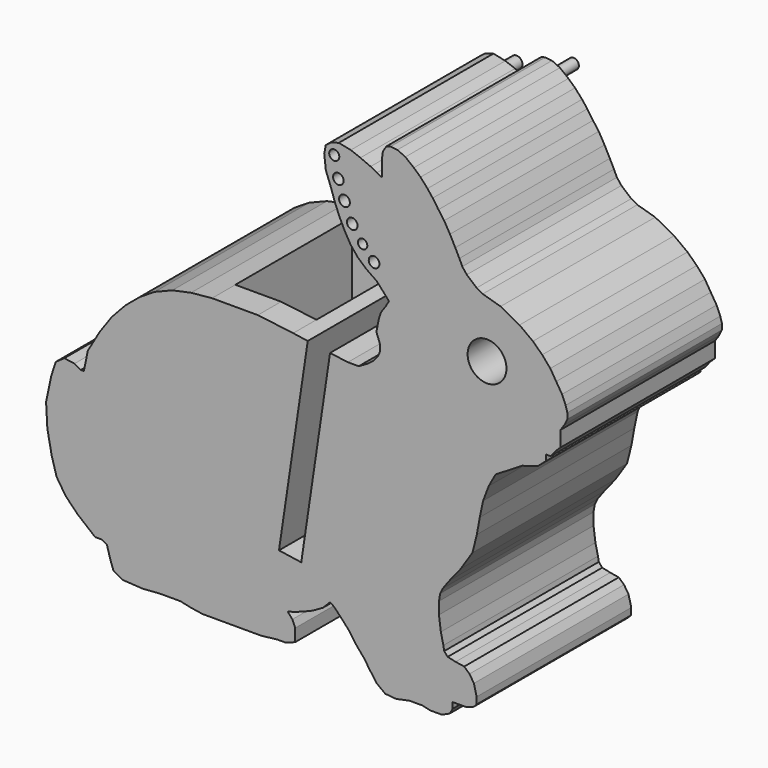
from build123d import *

# Parameters (mm, degrees)
F0_R      = 2.25
F1_DEPTH  = 3
F2_DEPTH  = 19.4
F3_DEPTH  = 15.7
F4_DEPTH  = 7
F5_W      = 4.1350234728
F5_H      = 16.9077240862
F6_DEPTH  = 10.7
F7_W      = 5.3056562265
F7_H      = 16.9077240862
F8_DEPTH  = 10.7
F9_W      = 16.0336308181
F9_H      = 2.2781235116
F10_DEPTH = 16.6
F11_W     = 6.7956339109
F11_H     = 16.8966327328
F12_DEPTH = 10
F13_W     = 1.892045081
F13_H     = 16.8966327328
F14_DEPTH = 10
F15_R     = 0.5852515225
F16_DEPTH = 6.9
F17_R     = 0.577475964
F18_DEPTH = 5.4
F19_R     = 0.6097848633
F20_DEPTH = 8.5
F21_R     = 0.624153218
F22_DEPTH = 3.8
F23_R     = 0.6177631652
F24_DEPTH = 3.8
F25_R     = 0.5472196242
F26_DEPTH = 3.8
F27_R     = 0.617770323
F28_DEPTH = 3.8
F29_R     = 0.6804973789
F30_DEPTH = 2.9
F31_R     = 0.6072449165
F32_DEPTH = 3.13


with BuildPart() as f1:
    # F0 (on Front) → F1 (new body)
    with BuildSketch(Plane.XZ):
        Polygon((59.1779698418, 31.194587481), (59.1779698418, 31.9005881237), (59.7388577371, 31.8816154154), (60.3070678192, 32.6076158289), (60.8939676434, 33.1560252645), (60.8939676434, 33.94444243), (60.8939676434, 34.9491785137), (61.3608548692, 35.6423513558), (61.6794760284, 36.3066197257), (61.6794760284, 36.964568034), (61.4824255283, 37.650985105), (61.0625805582, 38.6402383967), (60.3881708198, 39.7264862101), (59.7092475961, 40.8400280338), (58.7607938368, 41.9245535961), (57.6865458859, 42.9608735974), (56.131929641, 44.1080185295), (53.9428997059, 45.2900241974), (51.8717793367, 45.8880749855), (51.1641228177, 46.2767657275), (50.0276083315, 47.254787707), (49.500445814, 47.9175015095), (49.1623850594, 48.6403019596), (48.6890909202, 49.5821496811), (48.0721058512, 50.756745827), (47.4028453988, 51.9204250674), (46.7350661522, 52.8268286536), (46.0711401365, 53.7907023235), (45.4648239409, 54.5656838351), (44.6564314585, 55.4715389559), (43.8822848719, 56.1802155505), (42.8986280226, 56.9550049245), (41.9814228134, 57.3815747084), (41.2078828484, 57.4680692876), (40.7050007603, 57.323706376), (40.2931032973, 56.6803844909), (40.199734935, 55.9481483411), (40.199734935, 53.9804748212), (39.6002588357, 54.273896786), (38.8731125838, 54.6692215131), (37.691644901, 55.1789449292), (36.5735721249, 55.6012317928), (35.1899154237, 55.8898272879), (34.2816298321, 55.6290847487), (33.6731372422, 55.1684227791), (33.4962484397, 54.2325872158), (33.6837781683, 52.5928086281), (34.1659036474, 51.3379723538), (34.7663858487, 49.5873513683), (35.2569758596, 48.3876865141), (35.9067640461, 47.0506118809), (36.5332756434, 45.9664146991), (37.3798895218, 44.924222276), (38.3908508618, 44.0280229397), (39.5714766328, 43.2154907668), (40.3047049111, 42.4076781904), (41.0011964924, 41.6110026044), (40.6037128381, 40.9368513783), (40.0780839274, 40.1968563654), (39.8294614492, 39.436208314), (39.5429389686, 38.0218070561), (39.9435562115, 36.928816962), (39.9435562115, 36.0942029461), (39.6868255292, 35.5139231333), (39.2115087057, 34.9491785137), (38.4849423599, 34.4103130735), (37.4947947552, 33.8397134992), (36.2388370964, 33.8397134992), (34.1682477254, 34.1105470766), (31.5846720936, 34.4943121109), (29.9018896319, 34.7448454842), (25.7982475776, 35.2533147662), (22.9338105357, 35.2533147662), (20.4925913511, 35.2533147662), (18.0653283384, 35.0201785734), (15.8854493902, 34.5568092112), (13.8497609292, 33.7397600595), (12.1293465844, 32.6644815528), (10.4578391027, 31.2680783419), (8.8429108853, 29.5349174183), (7.4372964263, 27.5334818399), (6.0921336762, 25.2153127735), (5.626352988, 22.9853138756), (5.2811054162, 22.9853138756), (4.5523054715, 23.3941563518), (3.3652996425, 23.5582872219), (2.3869021215, 22.8734776027), (1.8580647324, 21.2996615779), (1.2503211514, 18.4274045382), (1.3953504937, 15.7512989625), (1.9034004358, 13.1371476651), (2.4727079067, 11.1539892033), (3.5306752582, 9.5370138477), (4.8935674994, 8.138209791), (6.9346738022, 6.4682455231), (7.7356851464, 6.4682455231), (8.3006708113, 6.139061086), (8.7042880198, 4.7330776356), (9.059931979, 3.7272284641), (10.1391117511, 3.1285394737), (12.4473123728, 2.994476163), (14.4526387363, 3.1366197305), (16.8182124996, 3.1366197305), (18.0060434283, 2.8763879966), (19.3903542013, 2.6614952628), (21.883129127, 2.6614952628), (23.7435637012, 2.6614952628), (26.1859881122, 2.6614952628), (28.06579015, 2.8763879966), (29.066299208, 2.8763879966), (30.1331987714, 3.287266694), (30.1331987714, 3.5115652152), (30.1331987714, 4.0722664313), (30.1331987714, 4.7332313456), (29.8045038484, 5.5102918726), (29.2580751761, 6.1180421129), (30.1753048391, 6.385948213), (31.1070111921, 6.7245609263), (32.1866285138, 7.1757989864), (33.3447322722, 7.8400621162), (34.1773899787, 8.6830629355), (34.5961799391, 8.3883274486), (35.2824532969, 7.6921380472), (36.3022424833, 6.5724259885), (37.0747716212, 5.4643229671), (38.0653628889, 4.2985577244), (38.7650963545, 3.287266694), (39.5393966511, 2.1927098055), (40.5617639739, 1.4101439923), (41.8474854837, 1.29517555), (43.3533756495, 1.6162313684), (44.9111674038, 1.6162313684), (45.7386897979, 1.4101439923), (47.1447348197, 1.4101439923), (48.0390547016, 1.8218246455), (48.391113549, 2.4300583955), (48.391113549, 3.1064440938), (49.9711618169, 3.1064440938), (50.7690600963, 3.3749897061), (51.1641228177, 3.7687113949), (51.1641228177, 4.5507251402), (50.8511063176, 5.8227389469), (50.331727117, 6.6105731496), (49.7232345272, 7.1669628431), (48.7272878623, 7.3274251963), (47.8059953638, 7.5314743863), (47.4058916521, 7.9913136579), (47.3091591362, 8.5442592861), (47.0176340929, 9.8221136372), (46.7949781293, 11.4877626708), (46.7949781293, 12.8848767905), (46.9349625513, 13.7100262861), (47.2396647362, 14.3331588828), (48.0156837904, 15.3890061712), (49.3168950791, 17.0124460815), (50.682930079, 19.1019749735), (51.1880177404, 21.1130785633), (51.5269728079, 22.9853138756), (51.9142522124, 24.7934957735), (52.5664263977, 26.5176664071), (53.3611806084, 27.9593477017), (56.4587800437, 29.8548648433), (58.2113468584, 30.3689550216), align=None)
        with Locations((52.3673893774, 39.17497812)):
            Circle(F0_R, mode=Mode.SUBTRACT)
    extrude(amount=F1_DEPTH)

    # F2 (add): a face of the model
    f2_faces = [f1.faces().sort_by_distance(p)[0] for p in [
        (31.8904414267, -3, 24.0565595855),
    ]]
    extrude(f2_faces, amount=F2_DEPTH)

    # F3 (cut): a face of the model
    f3_faces = [f1.faces().sort_by_distance(p)[0] for p in [
        (32.8764599095, -11.2, 34.3024295937),
    ]]
    extrude(f3_faces, amount=-F3_DEPTH, mode=Mode.SUBTRACT)

    # F4 (cut): a face of the model
    f4_faces = [f1.faces().sort_by_distance(p)[0] for p in [
        (30.5696873086, -11.2, 18.7728191618),
    ]]
    extrude(f4_faces, amount=-F4_DEPTH, mode=Mode.SUBTRACT)

    # F5 (on face) → F6 (cut)
    with BuildSketch(Plane(origin=(4.6921661262, 0, 37.8685024311), x_dir=(0.9924108246, 0, -0.1229664802), z_dir=(0.1229664802, 0, 0.9924108246))):
        with Locations((23.3349958554, -10.5777762365)):
            Rectangle(F5_W, F5_H)
    extrude(amount=-F6_DEPTH, mode=Mode.SUBTRACT)

    # F7 (on face) → F8 (cut)
    with BuildSketch(Plane.XY.offset(35.2533147662)):
        with Locations((23.1454194643, -10.5777762365)):
            Rectangle(F7_W, F7_H)
    extrude(amount=-F8_DEPTH, mode=Mode.SUBTRACT)

    # F9 (on face) → F10 (cut)
    with BuildSketch(Plane(origin=(0.7908976837, 0, -0.1651950895), x_dir=(0, -1, 0), z_dir=(-0.9788753272, 0, 0.2044580489))):
        with Locations((10.2716330439, 24.7891715513)):
            Rectangle(F9_W, F9_H)
    extrude(amount=-F10_DEPTH, mode=Mode.SUBTRACT)

    # F11 (on face) → F12 (cut)
    with BuildSketch(Plane(origin=(0, 0, 2.6614952628), x_dir=(1, 0, 0), z_dir=(0, 0, -1))):
        with Locations((22.7881711568, 11.4662194392)):
            Rectangle(F11_W, F11_H)
    extrude(amount=-F12_DEPTH, mode=Mode.SUBTRACT)

    # F13 (on face) → F14 (cut)
    with BuildSketch(Plane(origin=(0.0374635583, 0, -0.3277173312), x_dir=(0.9935292011, 0, 0.1135769628), z_dir=(0.1135769628, 0, -0.9935292011))):
        with Locations((27.2648509392, 11.4662194392)):
            Rectangle(F13_W, F13_H)
    extrude(amount=-F14_DEPTH, mode=Mode.SUBTRACT)

    # F15 (on face) → F16 (cut)
    with BuildSketch(Plane.XZ.offset(22.4)):
        with Locations((34.6582196653, 54.470397532)):
            Circle(F15_R)
    extrude(amount=-F16_DEPTH, mode=Mode.SUBTRACT)

    # F17 (on face) → F18 (join)
    with BuildSketch(Plane.XZ.offset(22.4)):
        with Locations((35.0366160274, 52.8145097196)):
            Circle(F17_R)
    extrude(amount=-F18_DEPTH)

    # F19 (on face) → F20 (cut)
    with BuildSketch(Plane.XZ.offset(22.4)):
        with Locations((35.130828619, 52.1968640387)):
            Circle(F19_R)
    extrude(amount=-F20_DEPTH, mode=Mode.SUBTRACT)

    # F21 (on face) → F22 (cut)
    with BuildSketch(Plane.XZ.offset(22.4)):
        with Locations((35.8442775905, 50.1843988895)):
            Circle(F21_R)
    extrude(amount=-F22_DEPTH, mode=Mode.SUBTRACT)

    # F23 (on face) → F24 (cut)
    with BuildSketch(Plane.XZ.offset(22.4)):
        with Locations((36.7444567382, 48.1295064092)):
            Circle(F23_R)
    extrude(amount=-F24_DEPTH, mode=Mode.SUBTRACT)

    # F25 (on face) → F26 (cut)
    with BuildSketch(Plane.XZ.offset(22.4)):
        with Locations((37.9446968436, 46.4612990618)):
            Circle(F25_R)
    extrude(amount=-F26_DEPTH, mode=Mode.SUBTRACT)

    # F27 (on face) → F28 (cut)
    with BuildSketch(Plane.XZ.offset(22.4)):
        with Locations((39.2735339701, 45.0445413589)):
            Circle(F27_R)
    extrude(amount=-F28_DEPTH, mode=Mode.SUBTRACT)

    # F29 (on face) → F30 (join)
    with BuildSketch(Plane(origin=(0, 0, 0), x_dir=(-1, 0, 0), z_dir=(0, 1, 0))):
        with Locations((-35.5555228889, 53.9565458894)):
            Circle(F29_R)
    extrude(amount=F30_DEPTH)

    # F31 (on face) → F32 (join)
    with BuildSketch(Plane(origin=(0, 0, 0), x_dir=(-1, 0, 0), z_dir=(0, 1, 0))):
        with Locations((-41.9814228134, 55.7911507785)):
            Circle(F31_R)
    extrude(amount=F32_DEPTH)


solid = f1.part
